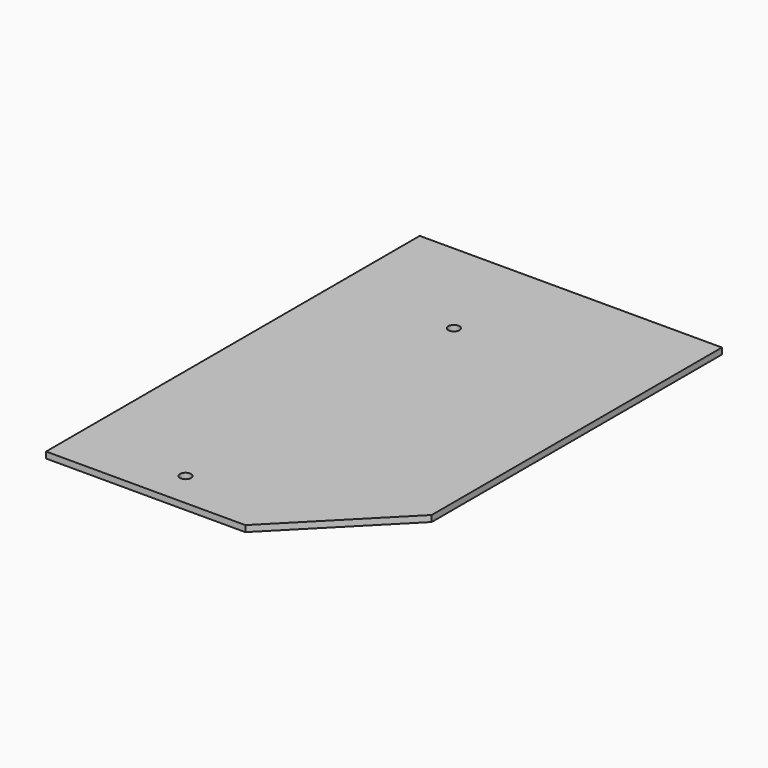
from build123d import *

# Parameters (mm, degrees)
F0_W     = 80.4
F0_H     = 124.25
F1_DEPTH = 1.651
F3_DEPTH = 1.652
F5_D     = 2.9464


with BuildPart() as f1:
    # F0 (on Top) → F1 (new body)
    with BuildSketch(Plane.XY):
        with Locations((40.2, 62.125)):
            Rectangle(F0_W, F0_H)
    extrude(amount=F1_DEPTH)

    # F2 (on face) → F3 (cut, through all)
    with BuildSketch(Plane.XY.offset(1.651)):
        Polygon((80.4, 0), (80.4, 27.75), (53, 0), align=None)
    extrude(amount=-F3_DEPTH, mode=Mode.SUBTRACT)

    # F5 (through all)
    with Locations(Plane.XY.offset(1.651)):
        with Locations((31.5, 96.25), (29.5, 9.5)):
            Hole(F5_D / 2)


solid = f1.part
